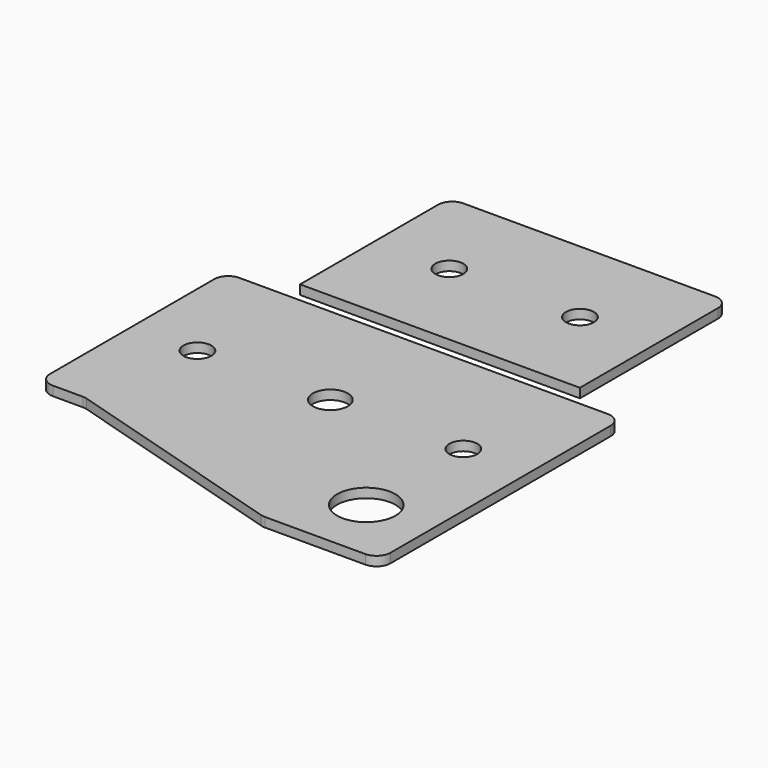
from build123d import *

# Parameters (mm, degrees)
F0_W     = 60
F0_H     = 40
F0_R     = 3
F0_R_2   = 6.25
F0_W_2   = 85
F0_H_2   = 33.308684
F0_R_3   = 3.75
F1_DEPTH = 2
F2_R     = 3


with BuildPart() as f1:
    # F0 (on Top) → F1 (new body)
    with BuildSketch(Plane.XY):
        with Locations((-9.448563, 23.94338)):
            Rectangle(F0_W, F0_H)
        with Locations((-23.448563, 23.94338)):
            Circle(F0_R, mode=Mode.SUBTRACT)
        with Locations((4.551437, 23.94338)):
            Circle(F0_R, mode=Mode.SUBTRACT)
        Polygon((33.155299, -33.871348), (-51.844701, -33.871348), (-51.844701, -50.562664), (-41.926093, -50.562664), (8.155299, -65.562664), (33.155299, -65.562664), align=None)
        with Locations((19.155299, -51.562664)):
            Circle(F0_R_2, mode=Mode.SUBTRACT)
        with Locations((-9.344701, -17.217006)):
            Rectangle(F0_W_2, F0_H_2)
        with Locations((-37.844701, -25.562664)):
            Circle(F0_R, mode=Mode.SUBTRACT)
        with Locations((-9.344701, -25.562664)):
            Circle(F0_R_3, mode=Mode.SUBTRACT)
        with Locations((19.155299, -25.562664)):
            Circle(F0_R, mode=Mode.SUBTRACT)
    extrude(amount=-F1_DEPTH)

    # F2
    f2_edges = [f1.edges().sort_by_distance(p)[0] for p in [
        (-39.448563, 43.94338, -1),
        (20.551437, 43.94338, -1),
        (-51.844701, -0.562664, -1),
        (-51.844701, -50.562664, -1),
        (-41.926093, -50.562664, -1),
        (8.155299, -65.562664, -1),
        (33.155299, -65.562664, -1),
        (33.155299, -0.562664, -1),
    ]]
    fillet(f2_edges, radius=F2_R)


solid = f1.part
